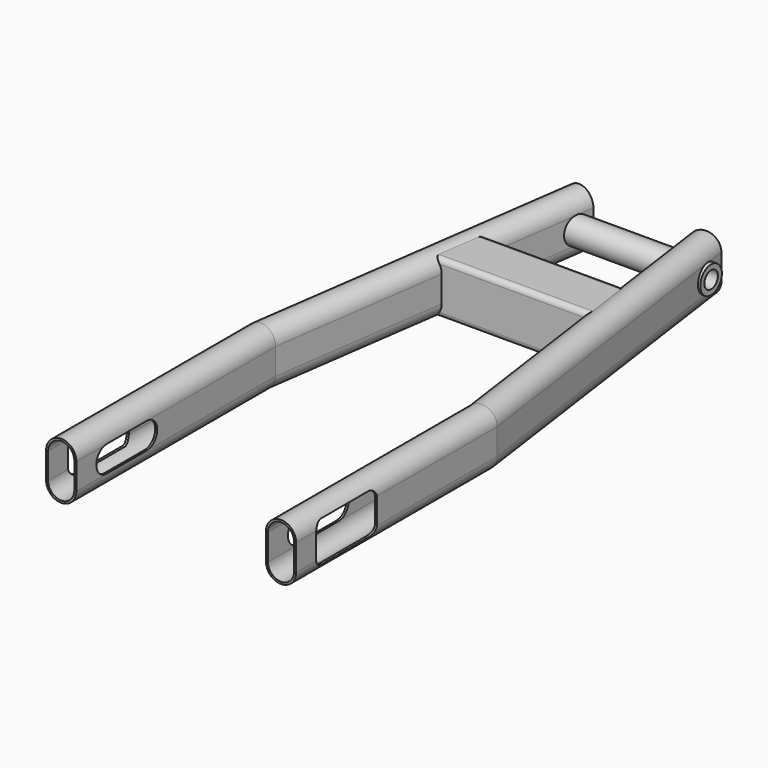
from build123d import *

# Parameters (mm, degrees)
F6_DEPTH  = 222
F8_DEPTH  = 25
F10_DEPTH = 30
F12_DEPTH = 4
F13_R     = 8
F17_DEPTH = 50
F18_R     = 5
F19_DEPTH = 110


with BuildPart() as f2:
    # F2: sweep along a path in F0
    with BuildLine(Plane.XY) as f2_path:
        Line((-65, 0), (-65, 148.03))
        Line((-65, 148.03), (-36.8369312897, 348.4206463905))
    # F1 (on Front) → F2 (sweep)
    with BuildSketch(Plane.XZ):
        with BuildLine():
            Line((-56.05, -7.75), (-56.05, 7.75))
            ThreePointArc((-56.05, 7.75), (-65, 16.7), (-73.95, 7.75))
            Line((-73.95, 7.75), (-73.95, -7.75))
            ThreePointArc((-73.95, -7.75), (-65, -16.7), (-56.05, -7.75))
        make_face()
        with BuildLine():
            Line((-57.25, 7.75), (-57.25, -7.75))
            ThreePointArc((-57.25, -7.75), (-65, -15.5), (-72.75, -7.75))
            Line((-72.75, -7.75), (-72.75, 7.75))
            ThreePointArc((-72.75, 7.75), (-65, 15.5), (-57.25, 7.75))
        make_face(mode=Mode.SUBTRACT)
    sweep(path=f2_path.line, transition=Transition.RIGHT)


with BuildPart() as f3_1:
    # F3: instance of F2
    add(f2.part.mirror(Plane.YZ))


with BuildPart() as f6_tool:
    # F5 (on offset) → F6 (new body)
    with BuildSketch(Plane.YZ.offset(98.95)):
        with BuildLine():
            Line((52.04, 7.75), (52.04, -7.75))
            ThreePointArc((52.04, -7.75), (59.79, 0), (52.04, 7.75))
        make_face()
        with BuildLine():
            Line((22.54, -7.75), (52.04, -7.75))
            Line((52.04, -7.75), (52.04, 7.75))
            Line((52.04, 7.75), (22.54, 7.75))
            ThreePointArc((22.54, 7.75), (14.79, 0), (22.54, -7.75))
        make_face()
    extrude(amount=-F6_DEPTH)


with BuildPart() as f2_1:
    add(f2.part)

    # F6: cut by f6_tool
    add(f6_tool.part, mode=Mode.SUBTRACT)

    # F7 (on face) → F8 (cut)
    with BuildSketch(Plane(origin=(-73.95, 0, 0), x_dir=(0, -1, 0), z_dir=(-1, 0, 0))):
        with BuildLine():
            Line((-52.04, -7.75), (-22.54, -7.75))
            ThreePointArc((-22.54, -7.75), (-14.79, 0), (-22.54, 7.75))
            Line((-22.54, 7.75), (-52.04, 7.75))
            ThreePointArc((-52.04, 7.75), (-59.79, 0), (-52.04, -7.75))
        make_face()
    extrude(amount=-F8_DEPTH, mode=Mode.SUBTRACT)

    # F11 (on face) → F12 (cut)
    with BuildSketch(Plane(origin=(-73.95, 0, 0), x_dir=(0, -1, 0), z_dir=(-1, 0, 0))):
        with BuildLine():
            Line((-54.76, -12), (-19.76, -12))
            ThreePointArc((-19.76, -12), (-16.2244660941, -10.5355339059), (-14.76, -7))
            Line((-14.76, -7), (-14.76, 7))
            ThreePointArc((-14.76, 7), (-16.2244660941, 10.5355339059), (-19.76, 12))
            Line((-19.76, 12), (-54.76, 12))
            ThreePointArc((-54.76, 12), (-58.2955339059, 10.5355339059), (-59.76, 7))
            Line((-59.76, 7), (-59.76, -7))
            ThreePointArc((-59.76, -7), (-58.2955339059, -10.5355339059), (-54.76, -12))
        make_face()
    extrude(amount=-F12_DEPTH, mode=Mode.SUBTRACT)



with BuildPart() as f3_1_1:
    add(f3_1.part)

    # F6: cut by f6_tool
    add(f6_tool.part, mode=Mode.SUBTRACT)

    # F9 (on offset) → F10 (cut)
    with BuildSketch(Plane.YZ.offset(98.95)):
        with BuildLine():
            Line((19.76, -12), (54.76, -12))
            ThreePointArc((54.76, -12), (58.2955339059, -10.5355339059), (59.76, -7))
            Line((59.76, -7), (59.76, 7))
            ThreePointArc((59.76, 7), (58.2955339059, 10.5355339059), (54.76, 12))
            Line((54.76, 12), (19.76, 12))
            ThreePointArc((19.76, 12), (16.2244660941, 10.5355339059), (14.76, 7))
            Line((14.76, 7), (14.76, -7))
            ThreePointArc((14.76, -7), (16.2244660941, -10.5355339059), (19.76, -12))
        make_face()
    extrude(amount=-F10_DEPTH, mode=Mode.SUBTRACT)

    # F14 (on Right) → F15 (join, up to the next surface of F3_1)
    with BuildSketch(Plane.YZ):
        with BuildLine():
            Line((254.7828733921, -15.5), (279.7828733921, -15.5))
            ThreePointArc((279.7828733921, -15.5), (281.9041937357, -14.6213203436), (282.7828733921, -12.5))
            Line((282.7828733921, -12.5), (282.7828733921, 12.5))
            ThreePointArc((282.7828733921, 12.5), (281.9041937357, 14.6213203436), (279.7828733921, 15.5))
            Line((279.7828733921, 15.5), (254.7828733921, 15.5))
            ThreePointArc((254.7828733921, 15.5), (252.6615530485, 14.6213203436), (251.7828733921, 12.5))
            Line((251.7828733921, 12.5), (251.7828733921, -12.5))
            ThreePointArc((251.7828733921, -12.5), (252.6615530485, -14.6213203436), (254.7828733921, -15.5))
        make_face()
        with BuildLine():
            Line((253.3828733921, -12.5), (253.3828733921, 12.5))
            ThreePointArc((253.3828733921, 12.5), (253.7929238984, 13.4899494937), (254.7828733921, 13.9))
            Line((254.7828733921, 13.9), (279.7828733921, 13.9))
            ThreePointArc((279.7828733921, 13.9), (280.7728228858, 13.4899494937), (281.1828733921, 12.5))
            Line((281.1828733921, 12.5), (281.1828733921, -12.5))
            ThreePointArc((281.1828733921, -12.5), (280.7728228858, -13.4899494937), (279.7828733921, -13.9))
            Line((279.7828733921, -13.9), (254.7828733921, -13.9))
            ThreePointArc((254.7828733921, -13.9), (253.7929238984, -13.4899494937), (253.3828733921, -12.5))
        make_face(mode=Mode.SUBTRACT)
    extrude(until=Until.NEXT)


with BuildPart() as f16_1:
    # F16: instance of F3_1
    add(f3_1_1.part.mirror(Plane.YZ))


with BuildPart() as f2_2:
    add(f2_1.part)

    add(f3_1_1.part)  # F17 merges F3_1

    add(f16_1.part)  # F17 merges F16_1
    # F13 (on Right) → F17 (join, symmetric)
    with BuildSketch(Plane.YZ):
        with Locations((336.695047137, 0)):
            Circle(F13_R)
    extrude(amount=F17_DEPTH, both=True)

    # F18 (on face) → F19 (cut)
    with BuildSketch(Plane.YZ.offset(50)):
        with Locations((336.695047137, 0)):
            Circle(F18_R)
    extrude(amount=-F19_DEPTH, mode=Mode.SUBTRACT)


solid = f2_2.part
